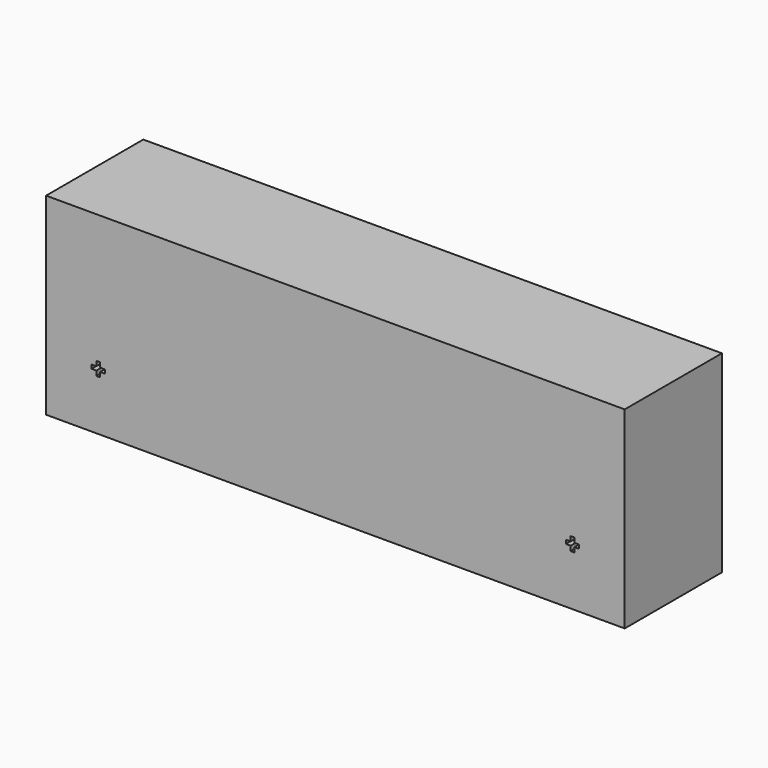
from build123d import *

# Parameters (mm, degrees)
F0_W     = 152.4
F0_H     = 50.8
F1_DEPTH = 32


with BuildPart() as f1:
    # F0 (on Front) → F1 (new body)
    with BuildSketch(Plane.XZ):
        Rectangle(F0_W, F0_H)
        Polygon((-62.95, -9.85), (-62.95, -8.6), (-61.95, -8.6), (-61.95, -9.85), (-60.7, -9.85), (-60.7, -10.85), (-61.95, -10.85), (-61.95, -12.1), (-62.95, -12.1), (-62.95, -10.85), (-64.2, -10.85), (-64.2, -9.85), align=None, mode=Mode.SUBTRACT)
        Polygon((60.7, -9.85), (61.95, -9.85), (61.95, -8.6), (62.95, -8.6), (62.95, -9.85), (64.2, -9.85), (64.2, -10.85), (62.95, -10.85), (62.95, -12.1), (61.95, -12.1), (61.95, -10.85), (60.7, -10.85), align=None, mode=Mode.SUBTRACT)
    extrude(amount=F1_DEPTH)


solid = f1.part
